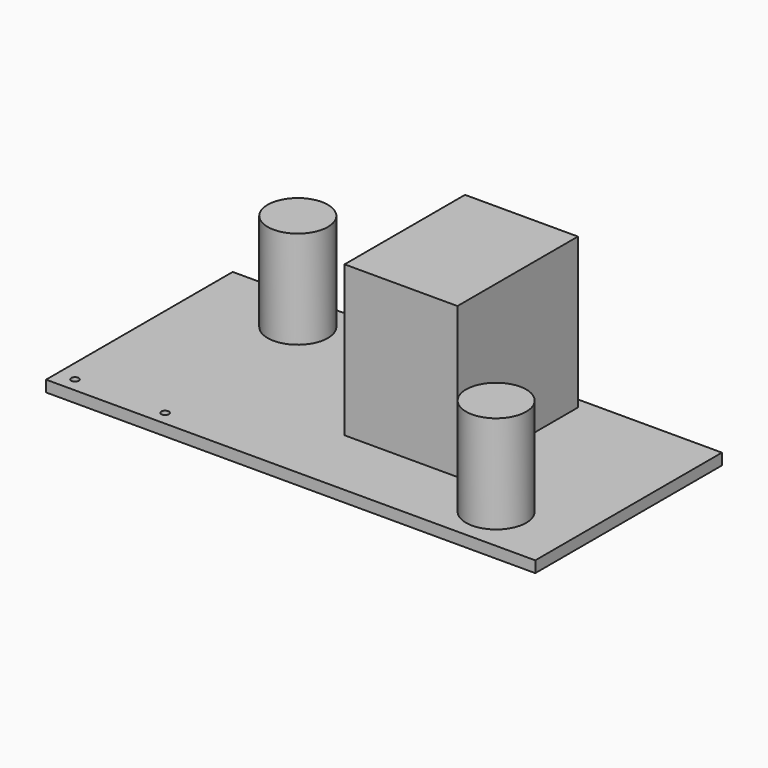
from build123d import *

# Parameters (mm, degrees)
F0_W      = 65
F0_H      = 1.5
F1_DEPTH  = 15.5
F2_W      = 15
F2_H      = 20
F3_DEPTH  = 20
F4_R      = 4
F5_DEPTH  = 13
F6_R      = 4
F7_DEPTH  = 13
F8_R      = 0.5
F9_DEPTH  = 25.4
F10_R     = 0.5
F11_DEPTH = 25.4


with BuildPart() as f1:
    # F0 (on Front) → F1 (new body, symmetric)
    with BuildSketch(Plane.XZ):
        Rectangle(F0_W, F0_H)
    extrude(amount=F1_DEPTH, both=True)

    # F2 (on face) → F3 (join)
    with BuildSketch(Plane.XY.offset(0.75)):
        with Locations((7, 4.07752)):
            Rectangle(F2_W, F2_H)
    extrude(amount=F3_DEPTH)

    # F4 (on face) → F5 (join)
    with BuildSketch(Plane.XY.offset(0.75)):
        with Locations((-19.5, 10.054756)):
            Circle(F4_R)
    extrude(amount=F5_DEPTH)

    # F6 (on face) → F7 (join)
    with BuildSketch(Plane.XY.offset(0.75)):
        with Locations((22.5, -9.5)):
            Circle(F6_R)
    extrude(amount=F7_DEPTH)

    # F8 (on face) → F9 (cut)
    with BuildSketch(Plane.XY.offset(0.75)):
        with Locations((-30.195765, -13.578762)):
            Circle(F8_R)
    extrude(amount=-F9_DEPTH, mode=Mode.SUBTRACT)

    # F10 (on face) → F11 (cut)
    with BuildSketch(Plane.XY.offset(0.75)):
        with Locations((-18.195813, -13.612677)):
            Circle(F10_R)
    extrude(amount=-F11_DEPTH, mode=Mode.SUBTRACT)


solid = f1.part
